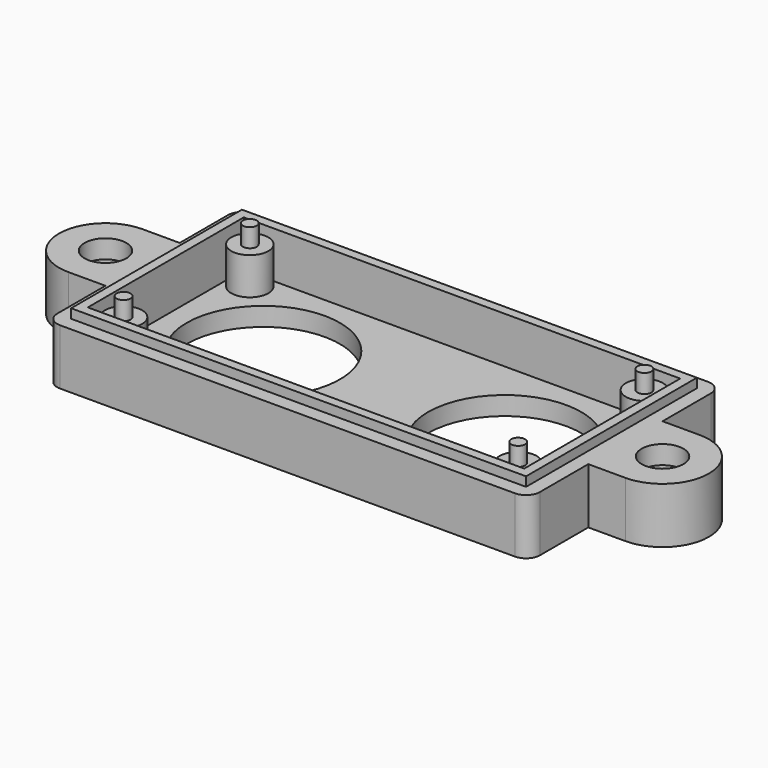
from build123d import *

# Parameters (mm, degrees)
SKETCH011_R             = 2.25
PAD004_DEPTH            = 6
SKETCH021_W             = 49
SKETCH021_H             = 23
SKETCH021_W_2           = 47
SKETCH021_H_2           = 21
PAD005_DEPTH            = 1
SKETCH020_W             = 47
SKETCH020_H             = 21
POCKET005_DEPTH         = 4
SKETCH012_R             = 8.25
POCKET006_DEPTH         = 8
POCKET006_DEPTH_BACK    = 8
SKETCH022_R             = 3.75
POCKET007_DEPTH         = 4
SKETCH024_R             = 2
PAD006_DEPTH            = 6
SKETCH025_R             = 0.75
PAD007_DEPTH            = 2
FILLET001_R             = 1.5
BODY001_PLACEMENT_ANGLE = 180


with BuildPart() as part:
    # Sketch011 → Pad004 (new body)
    with BuildSketch(Plane.XY):
        with BuildLine():
            Line((-26, 13), (26, 13))
            Line((26, 13), (26, 5))
            Line((30, 5), (26, 5))
            ThreePointArc((29.999982, -5), (35, -9e-06), (30, 5))
            Line((29.999982, -5), (25.999982, -5))
            Line((25.999982, -5), (25.999982, -13))
            Line((-26, -13), (25.999982, -13))
            Line((-26, -5), (-26, -13))
            Line((-30, -5), (-26, -5))
            ThreePointArc((-30, 5), (-35, 0), (-30, -5))
            Line((-30, 5), (-26, 5))
            Line((-26, 13), (-26, 5))
        make_face()
        with Locations((-30, 0)):
            Circle(SKETCH011_R, mode=Mode.SUBTRACT)
        with Locations((30, 0)):
            Circle(SKETCH011_R, mode=Mode.SUBTRACT)
    extrude(amount=PAD004_DEPTH)

    # Sketch021 → Pad005 (join, symmetric)
    with BuildSketch(Plane.XY):
        Rectangle(SKETCH021_W, SKETCH021_H)
        Rectangle(SKETCH021_W_2, SKETCH021_H_2, mode=Mode.SUBTRACT)
    extrude(amount=PAD005_DEPTH, both=True)

    # Sketch020 → Pocket005 (cut)
    with BuildSketch(Plane.XY):
        Rectangle(SKETCH020_W, SKETCH020_H)
    extrude(amount=POCKET005_DEPTH, mode=Mode.SUBTRACT)

    # Sketch012 → Pocket006 (cut, two sides)
    with BuildSketch(Plane.XY) as pocket006_sk:
        with Locations((-13, 0)):
            Circle(SKETCH012_R)
        with Locations((13, 0)):
            Circle(SKETCH012_R)
    extrude(amount=-POCKET006_DEPTH, mode=Mode.SUBTRACT)
    extrude(pocket006_sk.sketch, amount=POCKET006_DEPTH_BACK, mode=Mode.SUBTRACT)

    # Sketch022 (on Face5 of Pocket006) → Pocket007 (cut)
    with BuildSketch(Plane.XY.offset(6)):
        with Locations((-30, 0)):
            Circle(SKETCH022_R)
        with Locations((30, 0)):
            Circle(SKETCH022_R)
    extrude(amount=-POCKET007_DEPTH, mode=Mode.SUBTRACT)

    # Sketch024 → Pad006 (join)
    with BuildSketch(Plane.XY):
        with Locations((21.25, 8.5)):
            Circle(SKETCH024_R)
        with Locations((-21.25, 8.5)):
            Circle(SKETCH024_R)
        with Locations((-21.25, -8.5)):
            Circle(SKETCH024_R)
        with Locations((21.25, -8.5)):
            Circle(SKETCH024_R)
    extrude(amount=PAD006_DEPTH)

    # Sketch025 → Pad007 (join)
    with BuildSketch(Plane.XY):
        with Locations((-21.25, 8.5)):
            Circle(SKETCH025_R)
        with Locations((-21.25, -8.5)):
            Circle(SKETCH025_R)
        with Locations((21.25, 8.5)):
            Circle(SKETCH025_R)
        with Locations((21.25, -8.5)):
            Circle(SKETCH025_R)
    extrude(amount=-PAD007_DEPTH)

    # Fillet001
    fillet001_edges = [part.edges().sort_by_distance(p)[0] for p in [
        (26, 13, 3),
        (25.999982, -13, 3),
        (-26, 13, 3),
        (-26, -13, 3),
    ]]
    fillet(fillet001_edges, radius=FILLET001_R)


with BuildPart() as part_1:
    # Body001 placement: moved
    add(part.part.moved(Location((0, 0, -18))).rotate(Axis((0, 0, -18), (0, 1, 0)), BODY001_PLACEMENT_ANGLE))


solid = part_1.part
